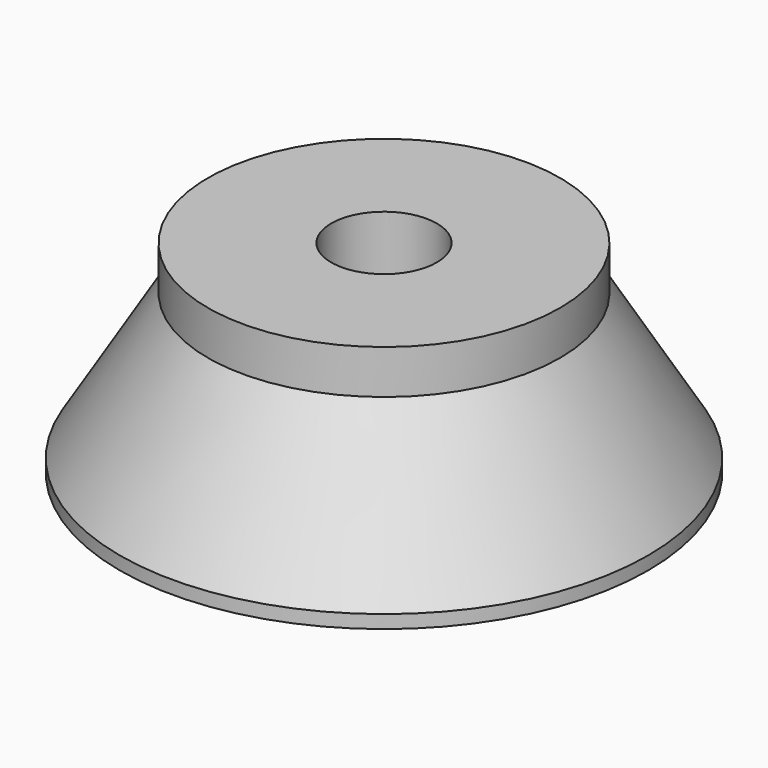
from build123d import *

# Parameters (mm, degrees)
F3_D           = 4.4
F3_DEPTH       = 12
F3_CSINK_D     = 8.96
F3_CSINK_ANGLE = 90
F3_TIP         = 1.3218933619


with BuildPart() as f1:
    # F0 (on Front) → F1 (revolve)
    with BuildSketch(Plane.XZ):
        Polygon((20, 25), (6, 25), (6, 10), (8.5, 10), (8.5, 0), (10.5, 0), (10.5, 2), (30, 2), (30, 3.5), (20, 20), align=None)
    revolve(axis=Axis((0, 0, 16.9775635981), (0, 0, 1)))

    # F3
    with Locations(Plane(origin=(0, 0, 2), x_dir=(1, 0, 0), z_dir=(0, 0, -1))):
        with Locations((-6.6226971572, 16.7373797938), (-11.1836475156, -14.1041138767), (17.8063446729, -2.6332659172)):
            CounterSinkHole(F3_D / 2, F3_CSINK_D / 2, depth=F3_DEPTH, counter_sink_angle=F3_CSINK_ANGLE)
            with Locations((0, 0, -(F3_DEPTH + F3_TIP / 2))):  # 118° drill point
                Cone(0, F3_D / 2, F3_TIP, mode=Mode.SUBTRACT)


solid = f1.part
